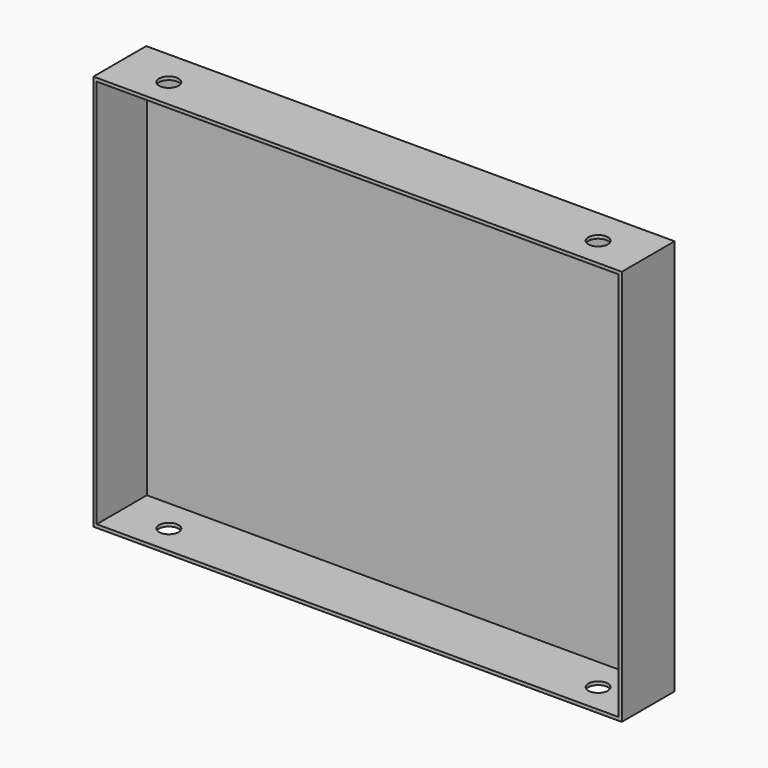
from build123d import *

# Parameters (mm, degrees)
F0_W     = 406.4
F0_H     = 304.8
F1_DEPTH = 50.8
F2_T     = -2.54
F5_D     = 15


with BuildPart() as f1:
    # F0 (on Front) → F1 (new body)
    with BuildSketch(Plane.XZ):
        with Locations((-1.795288, 0)):
            Rectangle(F0_W, F0_H)
    extrude(amount=F1_DEPTH)

    # F2
    f2_openings = [f1.faces().sort_by_distance(p)[0] for p in [
        (-1.795288, -50.8, 0),
    ]]
    offset(amount=F2_T, openings=f2_openings)

    # F5 (through all)
    with Locations(Plane.XY.offset(152.4)):
        with Locations((-165.1, -28.140361), (165.1, -28.140361)):
            Hole(F5_D / 2)


solid = f1.part
